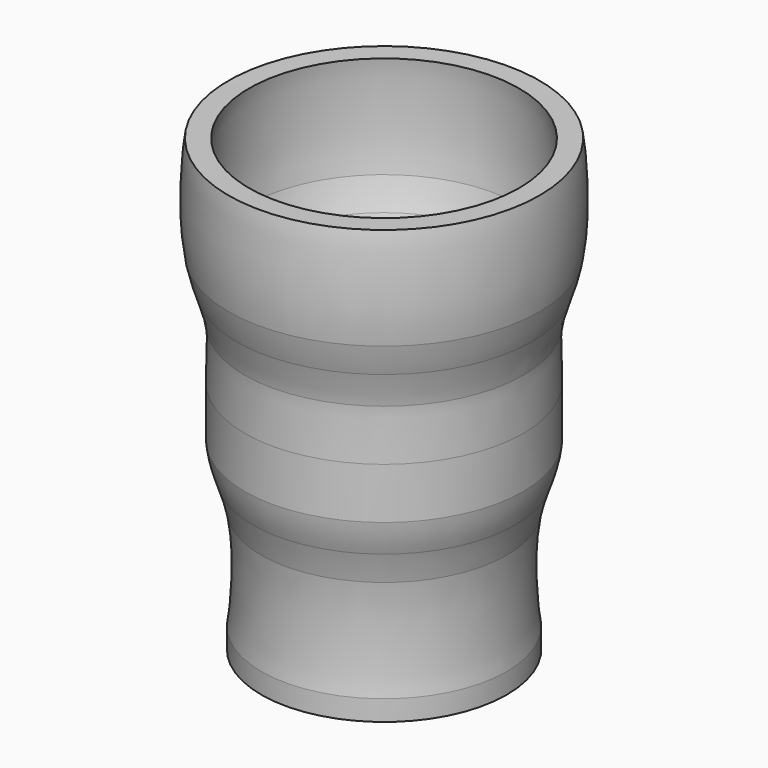
from build123d import *

# Parameters (mm, degrees)
F0_R     = 38.1
F0_R_2   = 31.75
F3_DEPTH = 6.35


with BuildPart() as f2:
    # F1 (on Front) → F2 (revolve)
    with BuildSketch(Plane.XZ):
        with BuildLine():
            Line((31.7502514942, -0.0565147211), (38.1, 0))
            add(Edge.make_bspline(
                [(38.1, 0), (36.8313788347, 7.2711816706), (36.3165292445, 22.1315784914), (38.1, 31.75)],
                knots=[0, 0, 0, 0, 0.2185300754, 0.2185300754, 0.2185300754, 0.2185300754], degree=3))
            add(Edge.make_bspline(
                [(38.1, 31.75), (38.7528829051, 35.2710574424), (39.7137647145, 38.0896355044), (40.64, 40.8149736952)],
                knots=[0.2185300754, 0.2185300754, 0.2185300754, 0.2185300754, 0.2985283316, 0.2985283316, 0.2985283316, 0.2985283316], degree=3))
            Line((40.64, 40.8149736952), (40.64, 50.8))
            Line((40.64, 50.8), (43.18, 50.8))
            Line((43.18, 50.8), (43.18, 66.675))
            add(Edge.make_bspline(
                [(43.18, 66.675), (42.9128675718, 72.3453526467), (42.6457351435, 78.0157052935), (43.18, 82.55)],
                knots=[0.5, 0.5, 0.5, 0.5, 0.6092650377, 0.6092650377, 0.6092650377, 0.6092650377], degree=3))
            add(Edge.make_bspline(
                [(43.18, 82.55), (43.6308556748, 86.3764027194), (44.6524137935, 89.3937796844), (45.72, 92.5350263048)],
                knots=[0.6092650377, 0.6092650377, 0.6092650377, 0.6092650377, 0.7014716684, 0.7014716684, 0.7014716684, 0.7014716684], degree=3))
            Line((45.72, 92.5350263048), (45.72, 101.6))
            Line((45.72, 101.6), (48.26, 101.6))
            Line((48.26, 101.6), (48.26, 133.35))
            Line((48.26, 133.35), (41.9102514942, 133.2934852789))
            add(Edge.make_bspline(
                [(41.9102514942, 101.5434852789), (43.6937222498, 111.1619067876), (43.1788726596, 126.0223036083), (41.9102514942, 133.2934852789)],
                knots=[0.7814699246, 0.7814699246, 0.7814699246, 0.7814699246, 1, 1, 1, 1], degree=3))
            add(Edge.make_bspline(
                [(39.3702514942, 92.4785115838), (40.2964867798, 95.2038497745), (41.2573685891, 98.0224278365), (41.9102514942, 101.5434852789)],
                knots=[0.7014716684, 0.7014716684, 0.7014716684, 0.7014716684, 0.7814699246, 0.7814699246, 0.7814699246, 0.7814699246], degree=3))
            Line((39.3702514942, 92.4785115838), (39.3702514942, 82.4934852789))
            Line((39.3702514942, 82.4934852789), (36.8302514942, 82.4934852789))
            Line((36.8302514942, 82.4934852789), (36.8302514942, 66.6184852789))
            add(Edge.make_bspline(
                [(36.8302514942, 50.7434852789), (37.3645163507, 55.2777799854), (37.0973839225, 60.9481326322), (36.8302514942, 66.6184852789)],
                knots=[0.3907349623, 0.3907349623, 0.3907349623, 0.3907349623, 0.5, 0.5, 0.5, 0.5], degree=3))
            add(Edge.make_bspline(
                [(34.2902514942, 40.7584589741), (35.3578377007, 43.8997055946), (36.3793958194, 46.9170825595), (36.8302514942, 50.7434852789)],
                knots=[0.2985283316, 0.2985283316, 0.2985283316, 0.2985283316, 0.3907349623, 0.3907349623, 0.3907349623, 0.3907349623], degree=3))
            Line((34.2902514942, 40.7584589741), (34.2902514942, 31.6934852789))
            Line((34.2902514942, 31.6934852789), (31.7502514942, 31.6934852789))
            Line((31.7502514942, 31.6934852789), (31.7502514942, -0.0565147211))
        make_face()
        with BuildLine():
            add(Edge.make_bspline(
                [(36.8302514942, 82.4934852789), (37.2811071691, 86.3198879983), (38.3026652878, 89.3372649633), (39.3702514942, 92.4785115838)],
                knots=[0.6092650377, 0.6092650377, 0.6092650377, 0.6092650377, 0.7014716684, 0.7014716684, 0.7014716684, 0.7014716684], degree=3))
            Line((36.8302514942, 82.4934852789), (39.3702514942, 82.4934852789))
            Line((39.3702514942, 82.4934852789), (39.3702514942, 92.4785115838))
        make_face()
        with BuildLine():
            Line((45.72, 101.6), (45.72, 92.5350263048))
            add(Edge.make_bspline(
                [(45.72, 92.5350263048), (46.6462352855, 95.2603644956), (47.6071170949, 98.0789425576), (48.26, 101.6)],
                knots=[0.7014716684, 0.7014716684, 0.7014716684, 0.7014716684, 0.7814699246, 0.7814699246, 0.7814699246, 0.7814699246], degree=3))
            Line((48.26, 101.6), (45.72, 101.6))
        make_face()
        with BuildLine():
            Line((40.64, 50.8), (40.64, 40.8149736952))
            add(Edge.make_bspline(
                [(40.64, 40.8149736952), (41.7075862065, 43.9562203156), (42.7291443252, 46.9735972806), (43.18, 50.8)],
                knots=[0.2985283316, 0.2985283316, 0.2985283316, 0.2985283316, 0.3907349623, 0.3907349623, 0.3907349623, 0.3907349623], degree=3))
            Line((43.18, 50.8), (40.64, 50.8))
        make_face()
        with BuildLine():
            add(Edge.make_bspline(
                [(31.7502514942, 31.6934852789), (32.4031343993, 35.2145427213), (33.3640162087, 38.0331207834), (34.2902514942, 40.7584589741)],
                knots=[0.2185300754, 0.2185300754, 0.2185300754, 0.2185300754, 0.2985283316, 0.2985283316, 0.2985283316, 0.2985283316], degree=3))
            Line((31.7502514942, 31.6934852789), (34.2902514942, 31.6934852789))
            Line((34.2902514942, 31.6934852789), (34.2902514942, 40.7584589741))
        make_face()
        with BuildLine():
            add(Edge.make_bspline(
                [(31.7502514942, -0.0565147211), (30.4816303289, 7.2146669496), (29.9667807387, 22.0750637703), (31.7502514942, 31.6934852789)],
                knots=[0, 0, 0, 0, 0.2185300754, 0.2185300754, 0.2185300754, 0.2185300754], degree=3))
            Line((31.7502514942, -0.0565147211), (31.7502514942, 31.6934852789))
        make_face()
        with BuildLine():
            Line((48.26, 133.35), (48.26, 101.6))
            add(Edge.make_bspline(
                [(48.26, 101.6), (50.0434707555, 111.2184215086), (49.5286211653, 126.0788183294), (48.26, 133.35)],
                knots=[0.7814699246, 0.7814699246, 0.7814699246, 0.7814699246, 1, 1, 1, 1], degree=3))
        make_face()
    revolve(axis=Axis((0, 0, 0), (0, 0, 1)))

    # F0 (on Top) → F3 (join)
    with BuildSketch(Plane.XY):
        Circle(F0_R)
        Circle(F0_R_2, mode=Mode.SUBTRACT)
        Circle(F0_R_2)
    extrude(amount=-F3_DEPTH)


solid = f2.part
